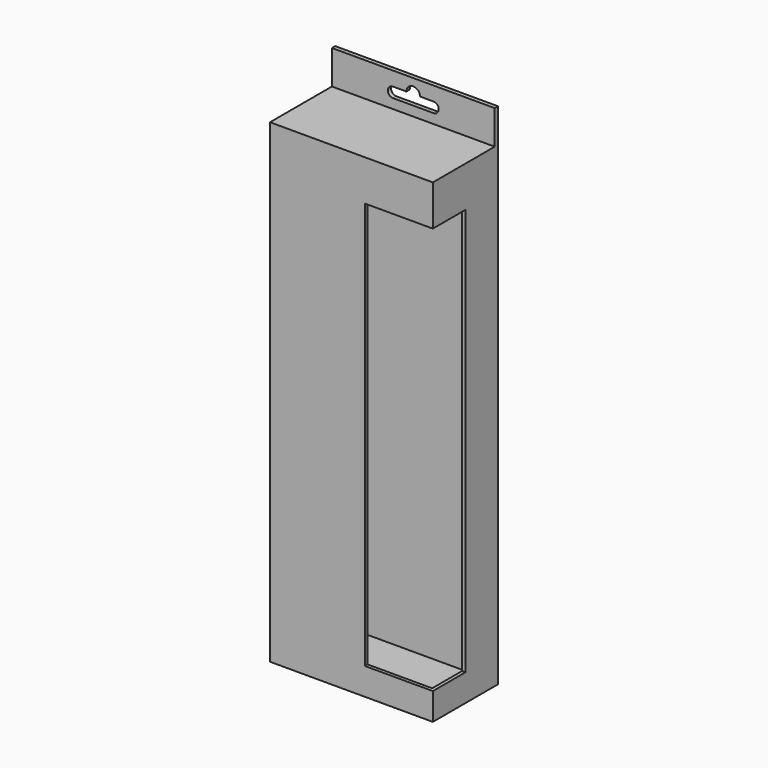
from build123d import *

# Parameters (mm, degrees)
F0_W     = 120
F0_H     = 350
F1_DEPTH = 60
F2_W     = 50
F2_H     = 300
F3_DEPTH = 30
F4_T     = -2.5
F5_W     = 120
F5_H     = 3
F6_DEPTH = 25
F8_DEPTH = 25


with BuildPart() as f1:
    # F0 (on Front) → F1 (new body)
    with BuildSketch(Plane.XZ):
        with Locations((60, 175)):
            Rectangle(F0_W, F0_H)
    extrude(amount=F1_DEPTH)

    # F2 (on face) → F3 (cut)
    with BuildSketch(Plane.XZ.offset(60)):
        with Locations((95, 170)):
            Rectangle(F2_W, F2_H)
    extrude(amount=-F3_DEPTH, mode=Mode.SUBTRACT)

    # F4
    f4_openings = [f1.faces().sort_by_distance(p)[0] for p in [
        (95, -45, 20),
        (70, -45, 170),
        (95, -30, 170),
        (95, -45, 320),
    ]]
    offset(amount=F4_T, openings=f4_openings)

    # F5 (on face) → F6 (join)
    with BuildSketch(Plane.XY.offset(350)):
        with Locations((60, -1.5)):
            Rectangle(F5_W, F5_H)
    extrude(amount=F6_DEPTH)

    # F7 (on face) → F8 (cut)
    with BuildSketch(Plane.XZ.offset(3)):
        with BuildLine():
            ThreePointArc((64.953983, 364.60001), (63.505749, 368.119237), (60, 369.599798))
            ThreePointArc((60, 369.599798), (56.434756, 368.151776), (54.953983, 364.60001))
            Line((54.953983, 364.60001), (44.953983, 364.60001))
            ThreePointArc((44.953983, 364.60001), (41.203983, 360.85001), (44.953983, 357.10001))
            Line((44.953983, 357.10001), (74.953983, 357.10001))
            ThreePointArc((74.953983, 357.10001), (78.703983, 360.85001), (74.953983, 364.60001))
            Line((74.953983, 364.60001), (64.953983, 364.60001))
        make_face()
    extrude(amount=-F8_DEPTH, mode=Mode.SUBTRACT)


solid = f1.part
